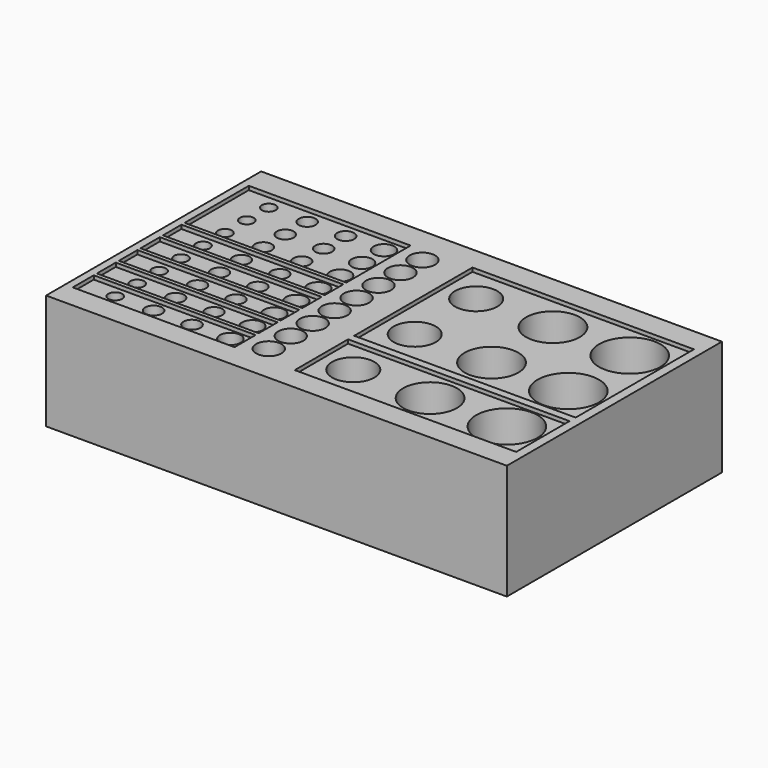
from build123d import *

# Parameters (mm, degrees)
SKETCH_W               = 120
SKETCH_H               = 70
PAD_DEPTH              = 30
SKETCH001_R            = 2.2
SKETCH001_R_2          = 3.3
SKETCH001_R_3          = 2.7
SKETCH001_R_4          = 1.8
POCKET_DEPTH           = 12
LINEARPATTERN_COUNT    = 8
LINEARPATTERN_PITCH    = 7.142857
SKETCH002_R            = 5.5
SKETCH002_R_2          = 7
SKETCH002_R_3          = 8
POCKET001_DEPTH        = 25
LINEARPATTERN001_COUNT = 3
LINEARPATTERN001_PITCH = 20
SKETCH003_W            = 42.132603
SKETCH003_H            = 20.915248
SKETCH003_H_2          = 6.049934
SKETCH003_H_3          = 6.286621
SKETCH003_H_4          = 6.053579
SKETCH003_H_5          = 6.157676
SKETCH003_H_6          = 6.848442
SKETCH003_W_2          = 57.669466
SKETCH003_H_7          = 38.496372
SKETCH003_H_8          = 17.364103
POCKET002_DEPTH        = 1


with BuildPart() as part:
    # Sketch → Pad (new body)
    with BuildSketch(Plane.XY):
        Rectangle(SKETCH_W, SKETCH_H)
    extrude(amount=PAD_DEPTH)

    # Sketch001 → Pocket (cut)
    with BuildSketch(Plane.XY.offset(30)):
        with Locations((-40, 25)):
            Circle(SKETCH001_R)
        with Locations((-10, 25)):
            Circle(SKETCH001_R_2)
        with Locations((-30, 25)):
            Circle(SKETCH001_R)
        with Locations((-20, 25)):
            Circle(SKETCH001_R_3)
        with Locations((-50, 25)):
            Circle(SKETCH001_R_4)
    pocket = extrude(amount=-POCKET_DEPTH, mode=Mode.SUBTRACT)

    # LinearPattern: Pocket ×8
    with Locations(*[(0, -i * LINEARPATTERN_PITCH, 0) for i in range(1, LINEARPATTERN_COUNT)]):
        add(pocket, mode=Mode.SUBTRACT)

    # Sketch002 → Pocket001 (cut)
    with BuildSketch(Plane.XY.offset(30)):
        with Locations((8, -20)):
            Circle(SKETCH002_R)
        with Locations((28, -20)):
            Circle(SKETCH002_R_2)
        with Locations((48, -20)):
            Circle(SKETCH002_R_3)
    pocket001 = extrude(amount=-POCKET001_DEPTH, mode=Mode.SUBTRACT)

    # LinearPattern001: Pocket001 ×3
    with Locations(*[(0, i * LINEARPATTERN001_PITCH, 0) for i in range(1, LINEARPATTERN001_COUNT)]):
        add(pocket001, mode=Mode.SUBTRACT)

    # Sketch003 → Pocket002 (cut)
    with BuildSketch(Plane.XY.offset(30)):
        with Locations((-36.933698, 18.03323)):
            Rectangle(SKETCH003_W, SKETCH003_H)
        with Locations((-36.933698, 3.550639)):
            Rectangle(SKETCH003_W, SKETCH003_H_2)
        with Locations((-36.933698, -3.617638)):
            Rectangle(SKETCH003_W, SKETCH003_H_3)
        with Locations((-36.933698, -10.787738)):
            Rectangle(SKETCH003_W, SKETCH003_H_4)
        with Locations((-36.933698, -17.893366)):
            Rectangle(SKETCH003_W, SKETCH003_H_5)
        with Locations((-36.933698, -25.396425)):
            Rectangle(SKETCH003_W, SKETCH003_H_6)
        with Locations((28.834733, 9.552328)):
            Rectangle(SKETCH003_W_2, SKETCH003_H_7)
        with Locations((28.834733, -20.377909)):
            Rectangle(SKETCH003_W_2, SKETCH003_H_8)
    extrude(amount=-POCKET002_DEPTH, mode=Mode.SUBTRACT)


solid = part.part
